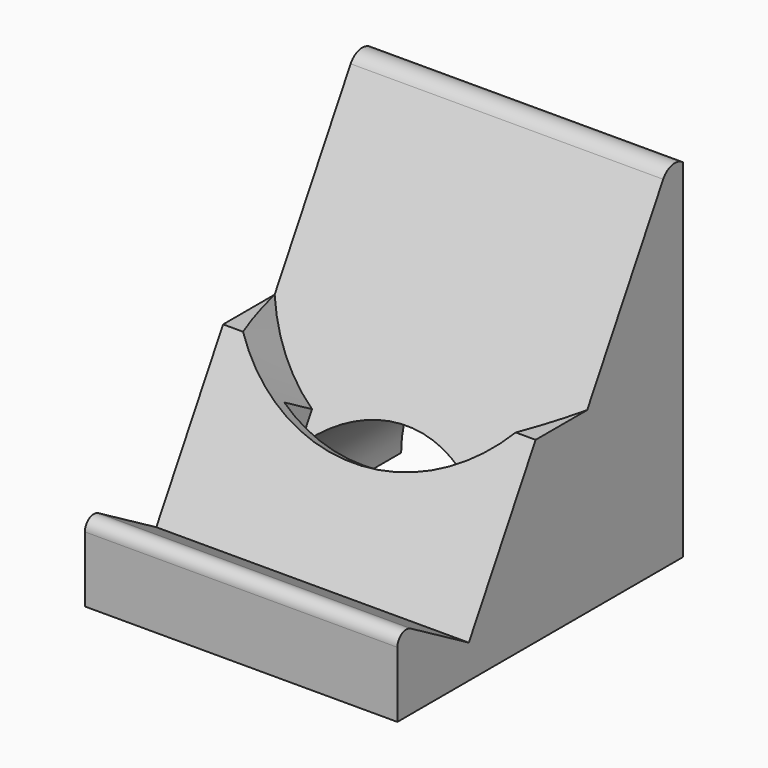
from build123d import *

# Parameters (mm, degrees)
F1_DEPTH  = 88.9
F3_DEPTH  = 15.875
F5_DEPTH  = 88.901
F6_W      = 50.8
F6_H      = 11.43
F7_DEPTH  = 136.4343795657
F8_R      = 35.7660342863
F9_DEPTH  = 57.15
F10_W     = 50.8
F10_H     = 6.2183902673
F11_DEPTH = 10.7715678842
F13_DEPTH = 88.9
F15_DEPTH = 88.901
F17_DEPTH = 88.901


with BuildPart() as f1:
    # F0 (on Right) → F1 (new body)
    with BuildSketch(Plane.YZ):
        Polygon((0, 9.525), (0, 0), (101.6, 0), (101.6, 101.6), (78.5595260356, 101.6), (25.4, 9.525), align=None)
    extrude(amount=F1_DEPTH)

    # F2 (on face) → F3 (cut)
    with BuildSketch(Plane(origin=(0, 14.9255540145, -8.6172726281), x_dir=(1, 0, 0), z_dir=(0, -0.8660254038, 0.5))):
        with BuildLine():
            Line((0, 127.2679440423), (-3.7916075595, 108.4635424443))
            ThreePointArc((-3.7916075595, 108.4635424443), (44.45, 49.523891971), (92.6916075595, 108.4635424443))
            Line((92.6916075595, 108.4635424443), (88.9, 127.2679440423))
            Line((88.9, 127.2679440423), (88.9, 140.5219882727))
            Line((88.9, 140.5219882727), (0, 140.5219882727))
            Line((0, 140.5219882727), (0, 127.2679440423))
        make_face()
    extrude(amount=-F3_DEPTH, mode=Mode.SUBTRACT)

    # F4 (on face) → F5 (cut, through all)
    with BuildSketch(Plane.YZ.offset(88.9)):
        Polygon((103.9759144766, 114.3859309679), (96.8903970824, 101.6), (110.1333461889, 93.9541797685), (117.4411960521, 106.6117470256), align=None)
    extrude(amount=-F5_DEPTH, mode=Mode.SUBTRACT)

    # F6 (on face) → F7 (cut, through all)
    with BuildSketch(Plane(origin=(0, 68.2166897829, 118.1547726281), x_dir=(1, 0, 0), z_dir=(0, 0.5, 0.8660254038))):
        with Locations((44.45, 27.3945452561)):
            Rectangle(F6_W, F6_H)
    extrude(amount=-F7_DEPTH, mode=Mode.SUBTRACT)

    # F8 (on face) → F9 (cut)
    with BuildSketch(Plane(origin=(0, 101.6, 0), x_dir=(-1, 0, 0), z_dir=(0, 1, 0))):
        with Locations((-44.45, 0)):
            Circle(F8_R)
    extrude(amount=-F9_DEPTH, mode=Mode.SUBTRACT)

    # F10 (on face) → F11 (cut, through all)
    with BuildSketch(Plane(origin=(0, 0, 0), x_dir=(1, 0, 0), z_dir=(0, 0, -1))):
        with Locations((44.45, -41.3408048664)):
            Rectangle(F10_W, F10_H)
    extrude(amount=-F11_DEPTH, mode=Mode.SUBTRACT)

    # F12 (on face) → F13 (join)
    with BuildSketch(Plane.YZ.offset(88.9)):
        with BuildLine():
            Line((0, 9.525), (25.4, 9.525))
            Line((25.4, 9.525), (4.7625, 21.4400661804))
            ThreePointArc((4.7625, 21.4400661804), (1.5875, 21.4400661804), (0, 18.6904355234))
            Line((0, 18.6904355234), (0, 9.525))
        make_face()
    extrude(amount=-F13_DEPTH)

    # F14 (on face) → F15 (cut, through all)
    with BuildSketch(Plane.YZ.offset(88.9)):
        Polygon((49.1508753236, 50.6627227848), (67.4817463704, 50.6627227848), (53.7335930853, 58.6002227848), align=None)
    extrude(amount=-F15_DEPTH, mode=Mode.SUBTRACT)

    # F16 (on face) → F17 (cut, through all)
    with BuildSketch(Plane.YZ.offset(88.9)):
        with BuildLine():
            ThreePointArc((94.5091470824, 97.4755540145), (97.4009673604, 99.6945257608), (101.0148430585, 99.2187500055))
            Line((101.0148430585, 99.2187500055), (96.8903970824, 101.6))
            Line((96.8903970824, 101.6), (94.5091470824, 97.4755540145))
        make_face()
        with BuildLine():
            ThreePointArc((101.0148430585, 99.2187500055), (101.3148393446, 99.0303330608), (101.6, 98.8201376344))
            Line((101.6, 98.8201376344), (101.6, 98.8809094878))
            Line((101.6, 98.8809094878), (101.0148430585, 99.2187500055))
        make_face()
    extrude(amount=-F17_DEPTH, mode=Mode.SUBTRACT)


solid = f1.part
